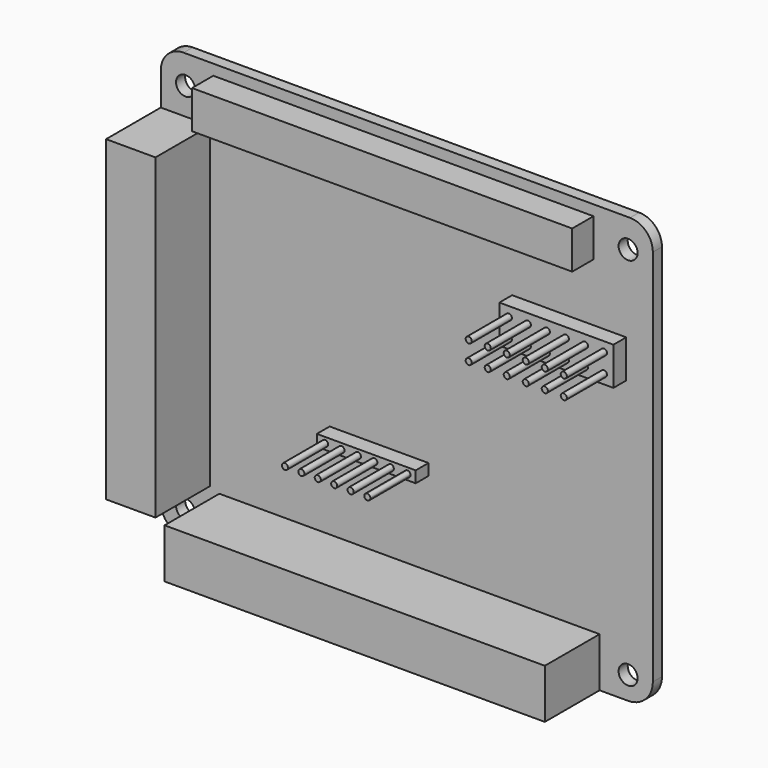
from build123d import *

# Parameters (mm, degrees)
F0_R     = 1.25
F0_W     = 50
F0_H     = 5
F0_W_2   = 15
F1_DEPTH = 1.5
F0_H_2   = 6.5
F2_DEPTH = 10.5
F0_R_2   = 0.4
F3_DEPTH = 3.6
F4_DEPTH = 10.2
F5_DEPTH = 5


with BuildPart() as f1:
    # F0 (on Front) → F1 (new body)
    with BuildSketch(Plane.XZ):
        with BuildLine():
            Line((38.7267845055, 24.8567230371), (38.7267845055, 25.6081590384))
            ThreePointArc((38.7267845055, 25.6081590384), (37.8486126129, 27.7289714965), (35.7282208505, 28.6081586945))
            Line((35.7282208505, 28.6081586945), (-22.9717791495, 28.6362631804))
            ThreePointArc((-22.9717791495, 28.6362631804), (-25.0940279526, 27.7580916317), (-25.9732154945, 25.6362635243))
            Line((-25.9732154945, 25.6362635243), (-25.9732154945, 21.3067230371))
            Line((-25.9732154945, 21.3067230371), (-19.4732154945, 21.3067230371))
            Line((-19.4732154945, 21.3067230371), (-19.4732154945, -20.3932769629))
            Line((-19.4732154945, -20.3932769629), (-25.9732154945, -20.3932769629))
            Line((-25.9732154945, -20.3932769629), (-25.9732154945, -24.3932769629))
            ThreePointArc((-25.9732154945, -24.3932769629), (-25.094535838, -26.5145973065), (-22.9732154945, -27.3932769629))
            Line((-22.9732154945, -27.3932769629), (-18.2732154945, -27.3932769629))
            Line((-18.2732154945, -27.3932769629), (-18.2732154945, -20.8932769629))
            Line((-18.2732154945, -20.8932769629), (31.7267845055, -20.8932769629))
            Line((31.7267845055, -20.8932769629), (31.7267845055, -27.3932769629))
            Line((31.7267845055, -27.3932769629), (35.4767845055, -27.3932769629))
            ThreePointArc((35.4767845055, -27.3932769629), (37.7748815444, -26.4413740018), (38.7267845055, -24.1432769629))
            Line((38.7267845055, -24.1432769629), (38.7267845055, 24.8567230371))
        make_face()
        with Locations((-22.7232154945, -24.1432769629)):
            Circle(F0_R, mode=Mode.SUBTRACT)
        Polygon((-3.7732154945, -9.8932769629), (-3.7732154945, -8.3932769629), (8.1467845055, -8.3932769629), (9.2267845055, -8.3932769629), (9.2267845055, -9.8932769629), (8.1467845055, -9.8932769629), (7.0267845055, -9.8932769629), (4.8667845055, -9.8932769629), (2.7067845055, -9.8932769629), (0.5467845055, -9.8932769629), (-1.6132154945, -9.8932769629), align=None, mode=Mode.SUBTRACT)
        with Locations((35.4767845055, -24.3807190031)):
            Circle(F0_R, mode=Mode.SUBTRACT)
        with Locations((-22.7232154945, 24.8862631804)):
            Circle(F0_R, mode=Mode.SUBTRACT)
        with Locations((5.9267845055, 24.7324910254)):
            Rectangle(F0_W, F0_H, mode=Mode.SUBTRACT)
        with Locations((27.7267845055, 12.1094132859)):
            Rectangle(F0_W_2, F0_H, mode=Mode.SUBTRACT)
        with Locations((35.4767845055, 24.8567230371)):
            Circle(F0_R, mode=Mode.SUBTRACT)
    extrude(amount=F1_DEPTH)

    # F0 (on Front) → F2 (join)
    with BuildSketch(Plane.XZ):
        Polygon((-19.4732154945, 21.3067230371), (-25.9732154945, 21.3067230371), (-25.9732154945, 8.8067230371), (-25.9732154945, -20.3932769629), (-19.4732154945, -20.3932769629), align=None)
        with Locations((6.7267845055, -24.1432769629)):
            Rectangle(F0_W, F0_H_2)
    extrude(amount=F2_DEPTH)

    # F0 (on Front) → F3 (join)
    with BuildSketch(Plane.XZ):
        with BuildLine():
            Line((8.1467845055, -8.3932769629), (-3.7732154945, -8.3932769629))
            Line((-3.7732154945, -8.3932769629), (-3.7732154945, -9.8932769629))
            Line((-3.7732154945, -9.8932769629), (-1.6132154945, -9.8932769629))
            Line((-1.6132154945, -9.8932769629), (0.5467845055, -9.8932769629))
            Line((0.5467845055, -9.8932769629), (2.7067845055, -9.8932769629))
            Line((2.7067845055, -9.8932769629), (4.8667845055, -9.8932769629))
            Line((4.8667845055, -9.8932769629), (7.0267845055, -9.8932769629))
            Line((7.0267845055, -9.8932769629), (8.1467845055, -9.8932769629))
            Line((8.1467845055, -9.8932769629), (8.1467845055, -9.5432769629))
            ThreePointArc((8.1467845055, -9.5432769629), (7.7467845055, -9.1432769629), (8.1467845055, -8.7432769629))
            Line((8.1467845055, -8.7432769629), (8.1467845055, -8.3932769629))
        make_face()
        with Locations((-2.6932154945, -9.1432769629)):
            Circle(F0_R_2, mode=Mode.SUBTRACT)
        with Locations((-0.5332154945, -9.1432769629)):
            Circle(F0_R_2, mode=Mode.SUBTRACT)
        with Locations((1.6267845055, -9.1432769629)):
            Circle(F0_R_2, mode=Mode.SUBTRACT)
        with Locations((3.7867845055, -9.1432769629)):
            Circle(F0_R_2, mode=Mode.SUBTRACT)
        with Locations((5.9467845055, -9.1432769629)):
            Circle(F0_R_2, mode=Mode.SUBTRACT)
        with BuildLine():
            Line((9.2267845055, -8.3932769629), (8.1467845055, -8.3932769629))
            Line((8.1467845055, -8.3932769629), (8.1467845055, -8.7432769629))
            ThreePointArc((8.1467845055, -8.7432769629), (8.429627218, -8.8604342504), (8.5467845055, -9.1432769629))
            ThreePointArc((8.5467845055, -9.1432769629), (8.429627218, -9.4261196754), (8.1467845055, -9.5432769629))
            Line((8.1467845055, -9.5432769629), (8.1467845055, -9.8932769629))
            Line((8.1467845055, -9.8932769629), (9.2267845055, -9.8932769629))
            Line((9.2267845055, -9.8932769629), (9.2267845055, -8.3932769629))
        make_face()
        with Locations((27.7267845055, 12.1094132859)):
            Rectangle(F0_W_2, F0_H)
        with Locations((21.4767845055, 10.8594132859)):
            Circle(F0_R_2, mode=Mode.SUBTRACT)
        with Locations((21.4767845055, 13.3594132859)):
            Circle(F0_R_2, mode=Mode.SUBTRACT)
        with Locations((23.9767845055, 10.8594132859)):
            Circle(F0_R_2, mode=Mode.SUBTRACT)
        with Locations((26.4767845055, 10.8594132859)):
            Circle(F0_R_2, mode=Mode.SUBTRACT)
        with Locations((28.9767845055, 10.8594132859)):
            Circle(F0_R_2, mode=Mode.SUBTRACT)
        with Locations((23.9767845055, 13.3594132859)):
            Circle(F0_R_2, mode=Mode.SUBTRACT)
        with Locations((26.4767845055, 13.3594132859)):
            Circle(F0_R_2, mode=Mode.SUBTRACT)
        with Locations((28.9767845055, 13.3594132859)):
            Circle(F0_R_2, mode=Mode.SUBTRACT)
        with Locations((31.4767845055, 10.8594132859)):
            Circle(F0_R_2, mode=Mode.SUBTRACT)
        with Locations((33.9767845055, 10.8594132859)):
            Circle(F0_R_2, mode=Mode.SUBTRACT)
        with Locations((31.4767845055, 13.3594132859)):
            Circle(F0_R_2, mode=Mode.SUBTRACT)
        with Locations((33.9767845055, 13.3594132859)):
            Circle(F0_R_2, mode=Mode.SUBTRACT)
    extrude(amount=F3_DEPTH)

    # F0 (on Front) → F4 (join)
    with BuildSketch(Plane.XZ):
        with Locations((21.4767845055, 13.3594132859)):
            Circle(F0_R_2)
        with Locations((23.9767845055, 13.3594132859)):
            Circle(F0_R_2)
        with Locations((26.4767845055, 13.3594132859)):
            Circle(F0_R_2)
        with Locations((28.9767845055, 13.3594132859)):
            Circle(F0_R_2)
        with Locations((31.4767845055, 13.3594132859)):
            Circle(F0_R_2)
        with Locations((33.9767845055, 13.3594132859)):
            Circle(F0_R_2)
        with Locations((21.4767845055, 10.8594132859)):
            Circle(F0_R_2)
        with Locations((23.9767845055, 10.8594132859)):
            Circle(F0_R_2)
        with Locations((26.4767845055, 10.8594132859)):
            Circle(F0_R_2)
        with Locations((28.9767845055, 10.8594132859)):
            Circle(F0_R_2)
        with Locations((31.4767845055, 10.8594132859)):
            Circle(F0_R_2)
        with Locations((33.9767845055, 10.8594132859)):
            Circle(F0_R_2)
        with Locations((-2.6932154945, -9.1432769629)):
            Circle(F0_R_2)
        with Locations((-0.5332154945, -9.1432769629)):
            Circle(F0_R_2)
        with Locations((1.6267845055, -9.1432769629)):
            Circle(F0_R_2)
        with Locations((3.7867845055, -9.1432769629)):
            Circle(F0_R_2)
        with Locations((5.9467845055, -9.1432769629)):
            Circle(F0_R_2)
        with BuildLine():
            ThreePointArc((8.5467845055, -9.1432769629), (8.429627218, -8.8604342504), (8.1467845055, -8.7432769629))
            Line((8.1467845055, -8.7432769629), (8.1467845055, -9.5432769629))
            ThreePointArc((8.1467845055, -9.5432769629), (8.429627218, -9.4261196754), (8.5467845055, -9.1432769629))
        make_face()
        with BuildLine():
            Line((8.1467845055, -9.5432769629), (8.1467845055, -8.7432769629))
            ThreePointArc((8.1467845055, -8.7432769629), (7.7467845055, -9.1432769629), (8.1467845055, -9.5432769629))
        make_face()
    extrude(amount=F4_DEPTH)

    # F0 (on Front) → F5 (join)
    with BuildSketch(Plane.XZ):
        with Locations((5.9267845055, 24.7324910254)):
            Rectangle(F0_W, F0_H)
    extrude(amount=F5_DEPTH)


solid = f1.part
